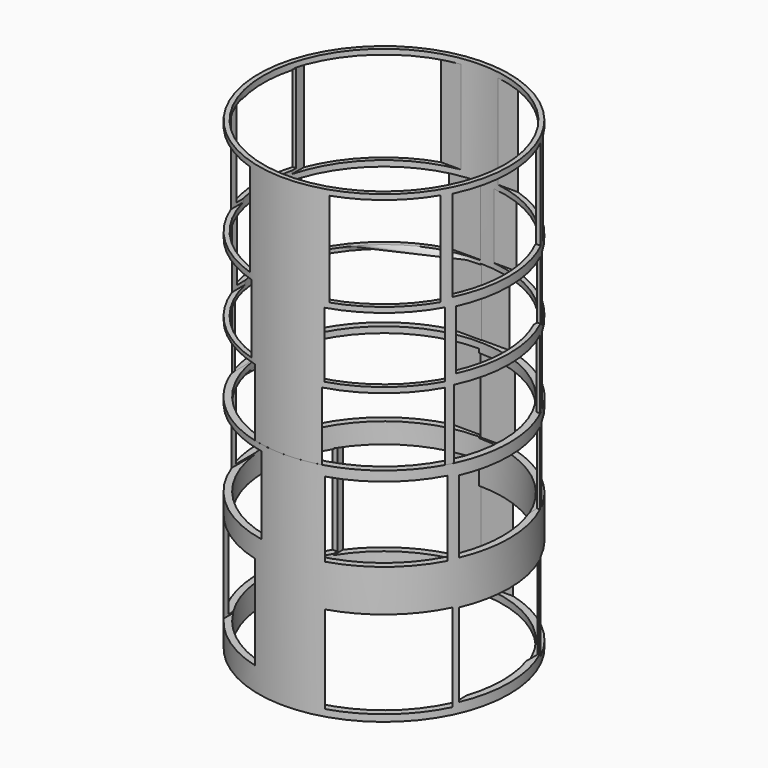
from build123d import *

# Parameters (mm, degrees)
F0_R      = 31.917302
F1_DEPTH  = 61.976
F2_R      = 31.934559
F3_DEPTH  = 56.388
F4_W      = 61.870079
F4_H      = 23.970603
F5_DEPTH  = 25.654
F6_W      = 34.660203
F6_H      = 23.484716
F7_DEPTH  = 55.118
F8_R      = 30.219337
F9_DEPTH  = 86.614
F10_W     = 61.384191
F10_H     = 22.350974
F11_DEPTH = 28.702
F12_W     = 25.752208
F12_H     = 21.217227
F13_DEPTH = 55.626
F14_W     = 61.222225
F14_H     = 19.111701
F15_DEPTH = 28.194
F16_W     = 62.355969
F16_H     = 19.759555
F17_DEPTH = 29.972
F18_W     = 18.949736
F18_H     = 18.787774
F19_DEPTH = 42.164
F20_W     = 26.238099
F20_H     = 18.463848
F21_DEPTH = 48.006
F22_W     = 61.870081
F22_H     = 17.087156
F23_DEPTH = 29.972
F24_W     = 61.80606
F24_H     = 17.330566
F25_DEPTH = 27.94
F26_W     = 19.759553
F26_H     = 16.925193
F27_DEPTH = 59.944
F28_W     = 27.371843
F28_H     = 17.573046
F29_DEPTH = 67.564
F30_R     = 30.730639
F31_DEPTH = 121.412
F32_W     = 61.384191
F32_H     = 17.492063
F33_DEPTH = 29.972
F34_W     = 61.041729
F34_H     = 16.627666
F35_DEPTH = 27.94
F36_W     = 27.209879
F36_H     = 15.06261
F37_DEPTH = 51.054
F38_W     = 18.62581
F38_H     = 16.52028
F39_DEPTH = 66.294
F40_W     = 60.574371
F40_H     = 23.970607
F41_DEPTH = 27.432
F42_W     = 28.18166
F42_H     = 23.160789
F43_DEPTH = 40.894
F44_W     = 60.736334
F44_H     = 23.646682
F45_DEPTH = 29.718
F46_W     = 18.949736
F46_H     = 22.512936
F47_DEPTH = 43.18


with BuildPart() as f1:
    # F0 (on Top) → F1 (new body)
    with BuildSketch(Plane.XY):
        Circle(F0_R)
    extrude(amount=F1_DEPTH)

    # F2 (on Top) → F3 (join)
    with BuildSketch(Plane.XY):
        Circle(F2_R)
    extrude(amount=-F3_DEPTH)

    # F4 (on Right) → F5 (cut)
    with BuildSketch(Plane.YZ):
        with Locations((0.08098, -38.466346)):
            Rectangle(F4_W, F4_H)
    extrude(amount=-F5_DEPTH, mode=Mode.SUBTRACT)

    # F6 (on Right) → F7 (cut)
    with BuildSketch(Plane.YZ):
        with Locations((-0.080982, -38.385364)):
            Rectangle(F6_W, F6_H)
    extrude(amount=-F7_DEPTH, mode=Mode.SUBTRACT)

    # F8 (on Top) → F9 (cut)
    with BuildSketch(Plane.XY):
        Circle(F8_R)
    extrude(amount=-F9_DEPTH, mode=Mode.SUBTRACT)

    # F10 (on Right) → F11 (cut)
    with BuildSketch(Plane.YZ):
        with Locations((0.161964, -43.487217)):
            Rectangle(F10_W, F10_H)
    extrude(amount=F11_DEPTH, mode=Mode.SUBTRACT)

    # F12 (on Right) → F13 (cut)
    with BuildSketch(Plane.YZ):
        with Locations((0.161964, -43.244272)):
            Rectangle(F12_W, F12_H)
    extrude(amount=F13_DEPTH, mode=Mode.SUBTRACT)

    # F14 (on Right) → F15 (cut)
    with BuildSketch(Plane.YZ):
        with Locations((0.080981, -12.066285)):
            Rectangle(F14_W, F14_H)
    extrude(amount=F15_DEPTH, mode=Mode.SUBTRACT)

    # F16 (on Right) → F17 (cut)
    with BuildSketch(Plane.YZ):
        with Locations((-0.161962, -11.418432)):
            Rectangle(F16_W, F16_H)
    extrude(amount=-F17_DEPTH, mode=Mode.SUBTRACT)

    # F18 (on Right) → F19 (cut)
    with BuildSketch(Plane.YZ):
        with Locations((-0.161963, -11.580395)):
            Rectangle(F18_W, F18_H)
    extrude(amount=-F19_DEPTH, mode=Mode.SUBTRACT)

    # F20 (on Right) → F21 (cut)
    with BuildSketch(Plane.YZ):
        with Locations((0.40491, -12.22825)):
            Rectangle(F20_W, F20_H)
    extrude(amount=F21_DEPTH, mode=Mode.SUBTRACT)

    # F22 (on Right) → F23 (cut)
    with BuildSketch(Plane.YZ):
        with Locations((0.080982, 8.543578)):
            Rectangle(F22_W, F22_H)
    extrude(amount=-F23_DEPTH, mode=Mode.SUBTRACT)

    # F24 (on Right) → F25 (cut)
    with BuildSketch(Plane.YZ):
        with Locations((0.210935, 8.665283)):
            Rectangle(F24_W, F24_H)
    extrude(amount=F25_DEPTH, mode=Mode.SUBTRACT)

    # F26 (on Right) → F27 (cut)
    with BuildSketch(Plane.YZ):
        with Locations((-0.080982, 8.462597)):
            Rectangle(F26_W, F26_H)
    extrude(amount=-F27_DEPTH, mode=Mode.SUBTRACT)

    # F28 (on Right) → F29 (cut)
    with BuildSketch(Plane.YZ):
        with Locations((1e-06, 8.786523)):
            Rectangle(F28_W, F28_H)
    extrude(amount=F29_DEPTH, mode=Mode.SUBTRACT)

    # F30 (on Top) → F31 (cut)
    with BuildSketch(Plane.XY):
        Circle(F30_R)
    extrude(amount=F31_DEPTH, mode=Mode.SUBTRACT)

    # F32 (on Right) → F33 (cut)
    with BuildSketch(Plane.YZ):
        with Locations((0.161964, 26.804969)):
            Rectangle(F32_W, F32_H)
    extrude(amount=-F33_DEPTH, mode=Mode.SUBTRACT)

    # F34 (on Right) → F35 (cut)
    with BuildSketch(Plane.YZ):
        with Locations((-0.009267, 27.020624)):
            Rectangle(F34_W, F34_H)
    extrude(amount=F35_DEPTH, mode=Mode.SUBTRACT)

    # F36 (on Right) → F37 (cut)
    with BuildSketch(Plane.YZ):
        with Locations((0.242946, 27.533806)):
            Rectangle(F36_W, F36_H)
    extrude(amount=F37_DEPTH, mode=Mode.SUBTRACT)

    # F38 (on Right) → F39 (cut)
    with BuildSketch(Plane.YZ):
        with Locations((0, 27.29086)):
            Rectangle(F38_W, F38_H)
    extrude(amount=-F39_DEPTH, mode=Mode.SUBTRACT)

    # F40 (on Right) → F41 (cut)
    with BuildSketch(Plane.YZ):
        with Locations((0.080981, 48.670051)):
            Rectangle(F40_W, F40_H)
    extrude(amount=F41_DEPTH, mode=Mode.SUBTRACT)

    # F42 (on Right) → F43 (cut)
    with BuildSketch(Plane.YZ):
        with Locations((0.080982, 48.912996)):
            Rectangle(F42_W, F42_H)
    extrude(amount=F43_DEPTH, mode=Mode.SUBTRACT)

    # F44 (on Right) → F45 (cut)
    with BuildSketch(Plane.YZ):
        with Locations((1e-06, 48.832014)):
            Rectangle(F44_W, F44_H)
    extrude(amount=-F45_DEPTH, mode=Mode.SUBTRACT)

    # F46 (on Right) → F47 (cut)
    with BuildSketch(Plane.YZ):
        with Locations((-0.323927, 49.074959)):
            Rectangle(F46_W, F46_H)
    extrude(amount=-F47_DEPTH, mode=Mode.SUBTRACT)


solid = f1.part
